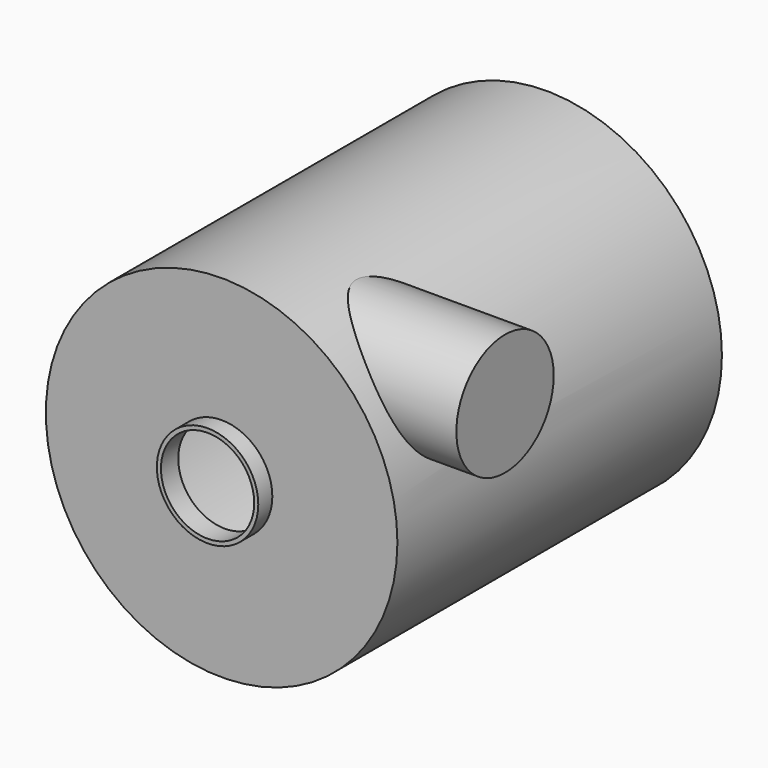
from build123d import *

# Parameters (mm, degrees)
F0_R      = 130
F1_DEPTH  = 300
F2_R      = 37.5
F3_DEPTH  = 13
F4_R      = 117
F4_R_2    = 72
F5_DEPTH  = 13
F5_TAPER  = 30
F6_R      = 22.5
F7_DEPTH  = 7
F7_TAPER  = 30
F8_T      = -3
F10_START = 25
F9_R      = 45
F10_DEPTH = 135


with BuildPart() as f1:
    # F0 (on Front) → F1 (new body)
    with BuildSketch(Plane.XZ):
        Circle(F0_R)
    extrude(amount=F1_DEPTH)

    # F2 (on face) → F3 (join)
    with BuildSketch(Plane.XZ.offset(300)):
        Circle(F2_R)
    extrude(amount=F3_DEPTH)

    # F4 (on face) → F5 (cut)
    with BuildSketch(Plane(origin=(0, 0, 0), x_dir=(-1, 0, 0), z_dir=(0, 1, 0))):
        Circle(F4_R)
        Circle(F4_R_2, mode=Mode.SUBTRACT)
    extrude(amount=-F5_DEPTH, taper=F5_TAPER, mode=Mode.SUBTRACT)

    # F6 (on face) → F7 (join)
    with BuildSketch(Plane(origin=(0, 0, 0), x_dir=(-1, 0, 0), z_dir=(0, 1, 0))):
        Circle(F6_R)
    extrude(amount=F7_DEPTH, taper=F7_TAPER)

    # F8
    f8_openings = [f1.faces().sort_by_distance(p)[0] for p in [
        (0, -313, 0),
    ]]
    offset(amount=F8_T, openings=f8_openings, kind=Kind.INTERSECTION)

    # F9 (on Right) → F10 (join)
    with BuildSketch(Plane.YZ.offset(F10_START)):
        with Locations((-238, 75)):
            Circle(F9_R)
    extrude(amount=F10_DEPTH)


solid = f1.part
